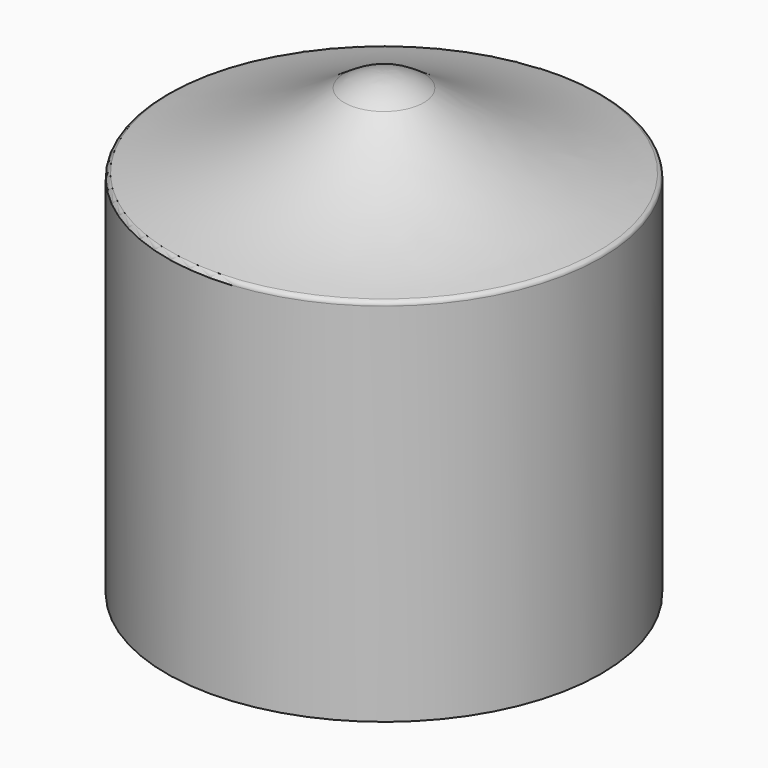
from build123d import *


with BuildPart() as f1:
    # F0 (on Front) → F1 (revolve)
    with BuildSketch(Plane.XZ):
        with BuildLine():
            Line((-47.5, 0), (0, 0))
            Line((0, 0), (0, 100))
            ThreePointArc((0, 100), (-4.555505, 99.298871), (-8.68936, 97.26038))
            ThreePointArc((-8.68936, 97.26038), (-26.851288, 87.15458), (-46.697239, 80.980355))
            ThreePointArc((-46.697239, 80.980355), (-47.273705, 80.633546), (-47.5, 80))
            Line((-47.5, 80), (-47.5, 0))
        make_face()
    revolve(axis=Axis((0, 0, 50), (0, 0, 1)))


solid = f1.part
